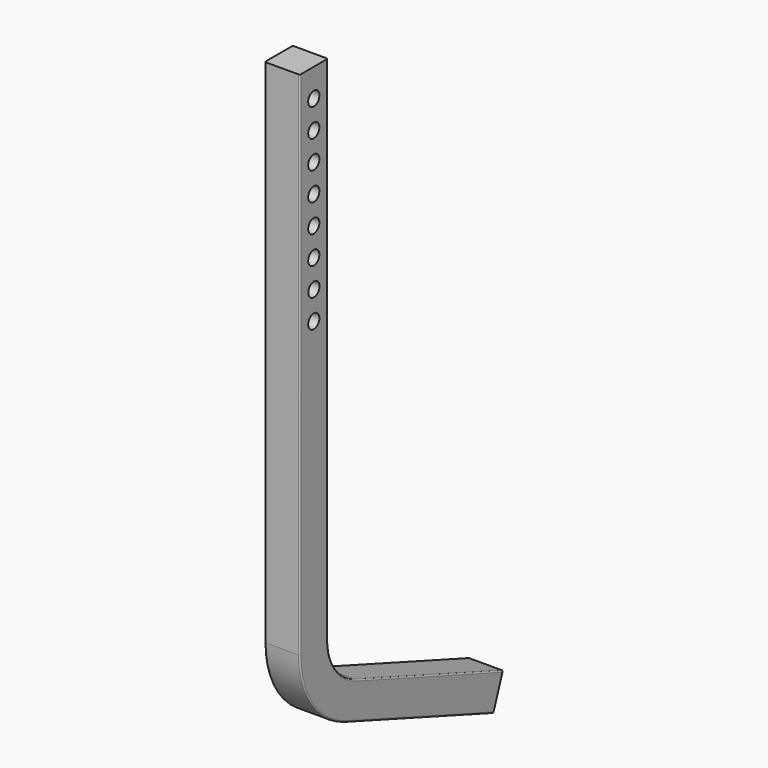
from build123d import *

# Parameters (mm, degrees)
F0_W          = 25
F0_H          = 25
F3_R          = 1
F4_R          = 5
F5_DEPTH      = 12.5010001
F5_DEPTH_BACK = 12.5010001


with BuildPart() as f2:
    # F2: sweep along a path in F1
    with BuildLine(Plane.YZ) as f2_path:
        Line((0, 0), (0, -364.9896230895))
        ThreePointArc((0, -364.9896230895), (9.0423977856, -393.6684449071), (32.8989928337, -411.9742541288))
        Line((32.8989928337, -411.9742541288), (164.4462086375, -459.853525082))
    # F0 (on Top) → F2 (sweep)
    with BuildSketch(Plane.XY):
        Rectangle(F0_W, F0_H)
    sweep(path=f2_path.line)

    # F3
    f3_edges = [f2.edges().sort_by_distance(p)[0] for p in [
        (12.5, -12.5, -182.494812),
        (12.5, -1.197003, -400.83815),
        (-12.5, 94.397349, -447.660047),
        (12.5, 102.947853, -424.167732),
        (-12.5, 102.947853, -424.167732),
    ]]
    fillet(f3_edges, radius=F3_R)

    # F4 (on Right) → F5 (cut, two sides)
    with BuildSketch(Plane.YZ) as f5_sk:
        with Locations((0, -20)):
            Circle(F4_R)
        with Locations((0, -40)):
            Circle(F4_R)
        with Locations((0, -60)):
            Circle(F4_R)
        with Locations((0, -80)):
            Circle(F4_R)
        with Locations((0, -100)):
            Circle(F4_R)
        with Locations((0, -120)):
            Circle(F4_R)
        with Locations((0.1194545839, -140)):
            Circle(F4_R)
        with Locations((0, -160)):
            Circle(F4_R)
    extrude(amount=-F5_DEPTH, mode=Mode.SUBTRACT)
    extrude(f5_sk.sketch, amount=F5_DEPTH_BACK, mode=Mode.SUBTRACT)


solid = f2.part
